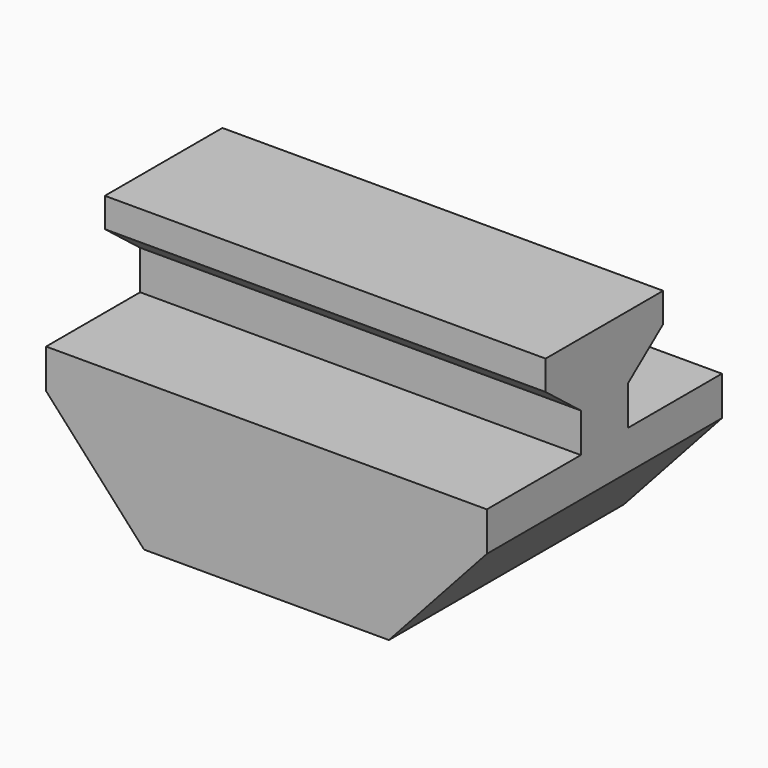
from build123d import *

# Parameters (mm, degrees)
F1_DEPTH = 150
F3_DEPTH = 450


with BuildPart() as f1:
    # F0 (on Front) → F1 (new body, symmetric)
    with BuildSketch(Plane.XZ):
        Polygon((225, 35), (225, 75), (-225, 75), (-225, 35), (-125, -75), (125, -75), align=None)
    extrude(amount=F1_DEPTH, both=True)

    # F2 (on face) → F3 (join, through all)
    with BuildSketch(Plane.YZ.offset(225)):
        Polygon((-30, 115), (-30, 75), (30, 75), (30, 115), (75, 150), (75, 180), (-75, 180), (-75, 150), align=None)
    extrude(amount=-F3_DEPTH)


solid = f1.part
